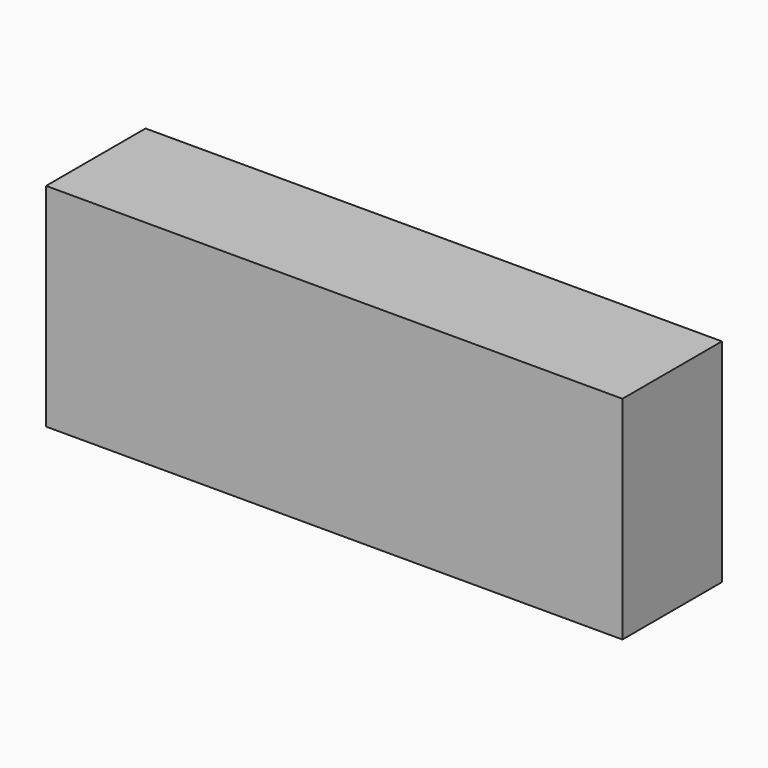
from build123d import *

# Parameters (mm, degrees)
SKETCH_W  = 46.36
SKETCH_H  = 17.05
PAD_DEPTH = 10


with BuildPart() as part:
    # Sketch → Pad (new body)
    with BuildSketch(Plane.XZ):
        with Locations((4.084652, 13.409553)):
            Rectangle(SKETCH_W, SKETCH_H)
    extrude(amount=PAD_DEPTH)


solid = part.part
